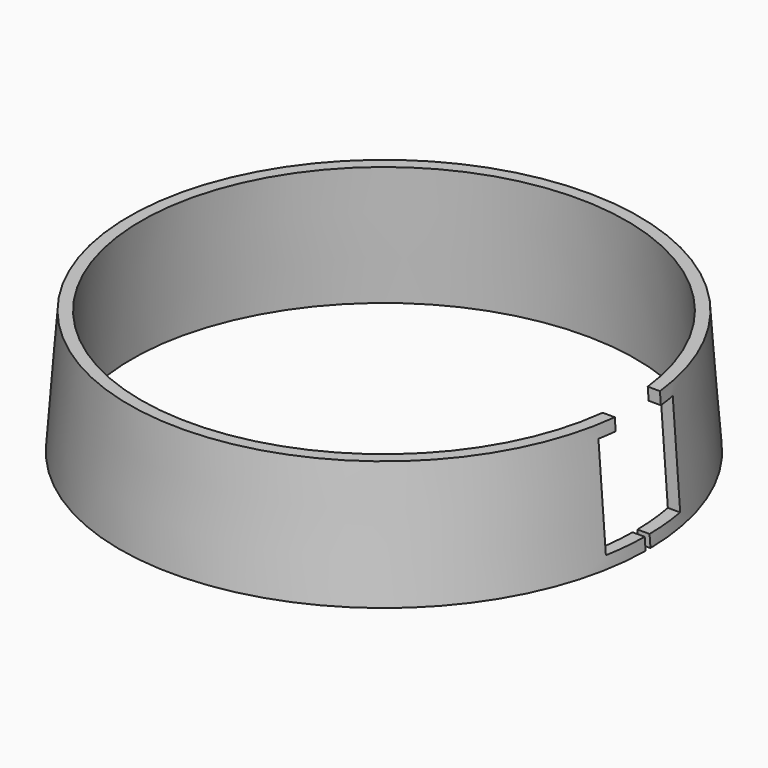
from build123d import *

# Parameters (mm, degrees)
BOX013_W     = 30
BOX013_H     = 9.3
BOX013_DEPTH = 25.5
BOX012_W     = 30
BOX012_H     = 15.3
BOX012_DEPTH = 16.5
BOX014_W     = 30
BOX014_H     = 1
BOX014_DEPTH = 25.5


with BuildPart() as cube013:
    # Box013 → Box013 (new body)
    with BuildSketch(Plane(origin=(24, -4.65, 2), x_dir=(1, 0, 0), z_dir=(0, 0, 1))):
        with Locations((15, 4.65)):
            Rectangle(BOX013_W, BOX013_H)
    extrude(amount=BOX013_DEPTH)


with BuildPart() as cube012:
    # Box012 → Box012 (new body)
    with BuildSketch(Plane(origin=(24, -7.65, 2), x_dir=(1, 0, 0), z_dir=(0, 0, 1))):
        with Locations((15, 7.65)):
            Rectangle(BOX012_W, BOX012_H)
    extrude(amount=BOX012_DEPTH)


with BuildPart() as obj1:
    # Box014 → Box014 (new body)
    with BuildSketch(Plane(origin=(24, -0.5, -2), x_dir=(1, 0, 0), z_dir=(0, 0, 1))):
        with Locations((15, 0.5)):
            Rectangle(BOX014_W, BOX014_H)
    extrude(amount=BOX014_DEPTH)

    # Fusion006: union Cube013, Cube012
    add(cube013.part)
    add(cube012.part)


with BuildPart() as cone_chico:
    # Cone → Cone (revolve)
    with BuildSketch(Plane.XZ):
        Polygon((0, 0), (41.5, 0), (40, 20.5), (0, 20.5), align=None)
    revolve(axis=Axis((0, 0, 0), (0, 0, 1)))


with BuildPart() as obj2:
    # Cone001 → Cone001 (revolve)
    with BuildSketch(Plane.XZ):
        Polygon((0, 0), (43.5, 0), (42, 20.5), (0, 20.5), align=None)
    revolve(axis=Axis((0, 0, 0), (0, 0, 1)))

    # Cut015014: cut Cone_chico
    add(cone_chico.part, mode=Mode.SUBTRACT)

    # Cut015027: cut obj1
    add(obj1.part, mode=Mode.SUBTRACT)


solid = obj2.part
